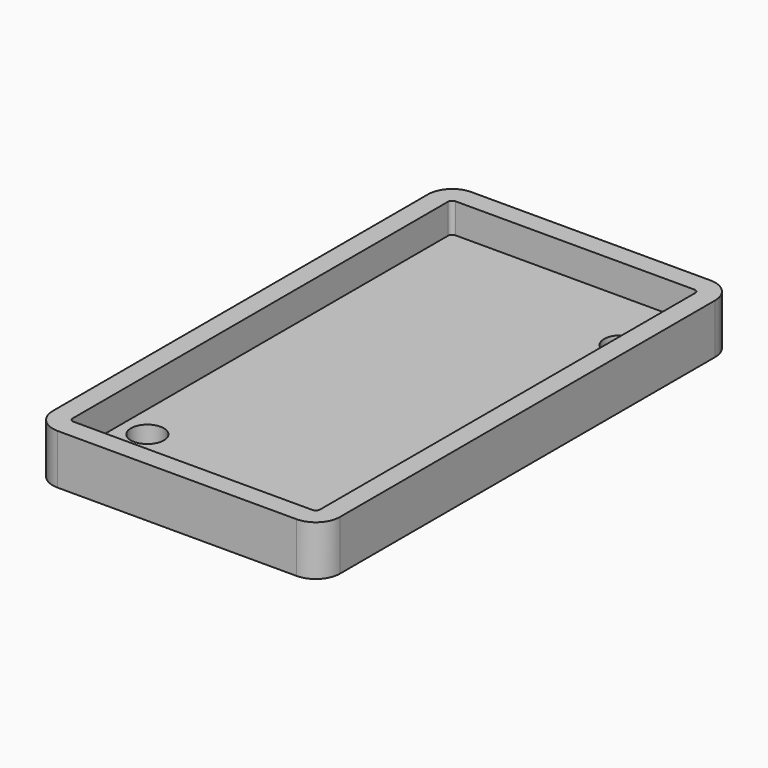
from build123d import *

# Parameters (mm, degrees)
F0_W     = 28.75
F0_H     = 51.8
F1_DEPTH = 5
F2_R     = 2.4142135624
F3_T     = -2
F4_D     = 3.3


with BuildPart() as f1:
    # F0 (on Top) → F1 (new body)
    with BuildSketch(Plane.XY):
        Rectangle(F0_W, F0_H)
    extrude(amount=F1_DEPTH)

    # F2
    f2_edges = [f1.edges().sort_by_distance(p)[0] for p in [
        (14.375, -25.9, 2.5),
        (-14.375, -25.9, 2.5),
        (14.375, 25.9, 2.5),
        (-14.375, 25.9, 2.5),
    ]]
    fillet(f2_edges, radius=F2_R)

    # F3
    f3_openings = [f1.faces().sort_by_distance(p)[0] for p in [
        (0, 0, 5),
    ]]
    offset(amount=F3_T, openings=f3_openings)

    # F4 (through all)
    with Locations(Plane(origin=(0, 0, 0), x_dir=(1, 0, 0), z_dir=(0, 0, -1))):
        with Locations((9.725, -17.46), (-9.725, 17.46)):
            Hole(F4_D / 2)


solid = f1.part
